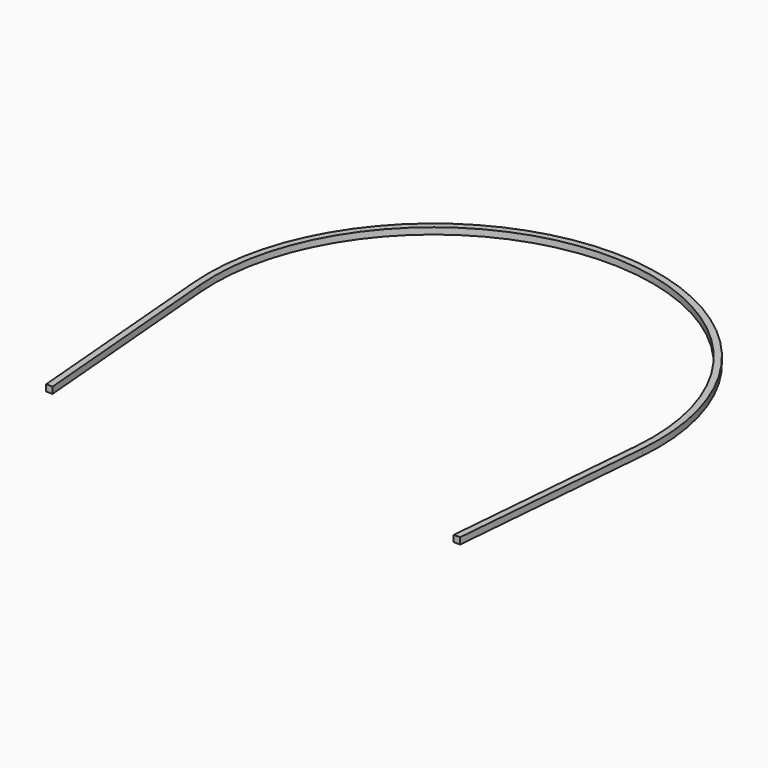
from build123d import *

# Parameters (mm, degrees)
F1_DEPTH = 2


with BuildPart() as f1:
    # F0 (on Top) → F1 (new body)
    with BuildSketch(Plane.XY):
        with BuildLine():
            Line((64.314021, -70), (69.749552, -5.916083))
            ThreePointArc((69.749552, -5.916083), (0, 70), (-69.749552, -5.916083))
            Line((-69.749552, -5.916083), (-64.314021, -70))
            Line((-64.314021, -70), (-62.306628, -70))
            Line((-62.306628, -70), (-67.742158, -5.916083))
            ThreePointArc((-67.742158, -5.916083), (0, 68), (67.742158, -5.916083))
            Line((67.742158, -5.916083), (62.306628, -70))
            Line((62.306628, -70), (64.314021, -70))
        make_face()
    extrude(amount=F1_DEPTH)


solid = f1.part
